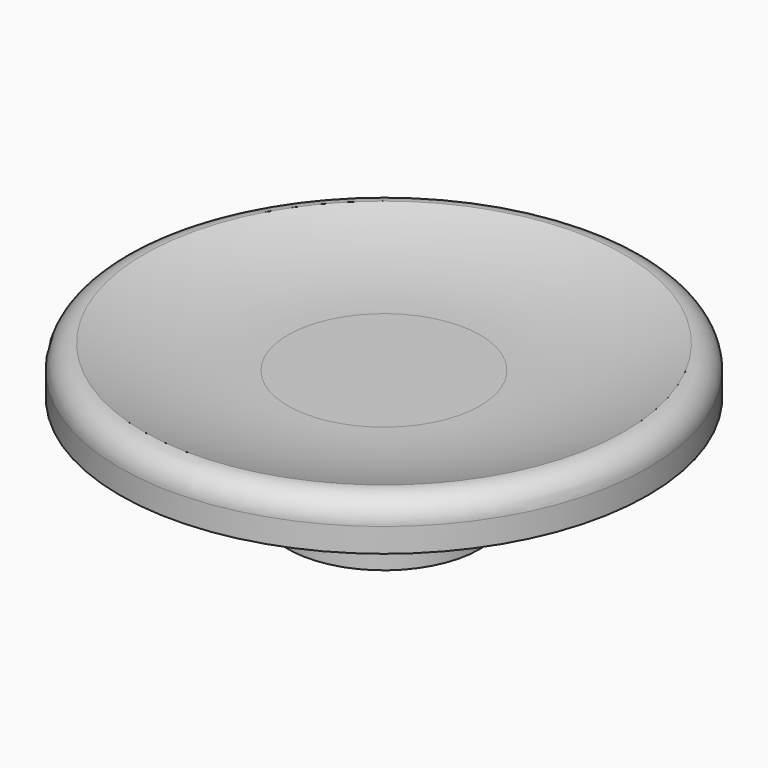
from build123d import *


with BuildPart() as f1:
    # F0 (on Front) → F1 (revolve)
    with BuildSketch(Plane.XZ):
        with BuildLine():
            Line((0, 5.25), (0, 0))
            Line((0, 0), (4, 0))
            Line((4, 0), (4, 3.5))
            Line((4, 3.5), (5.5, 3.5))
            Line((5.5, 3.5), (5.5, 4.25))
            Line((5.5, 4.25), (11, 4.25))
            Line((11, 4.25), (11, 5.25))
            ThreePointArc((11, 5.25), (10.707107, 5.957107), (10, 6.25))
            ThreePointArc((10, 6.25), (7.041381, 5.501712), (4, 5.25))
            Line((4, 5.25), (0, 5.25))
        make_face()
    revolve(axis=Axis((0, 0, 2.625), (0, 0, 1)))


solid = f1.part
